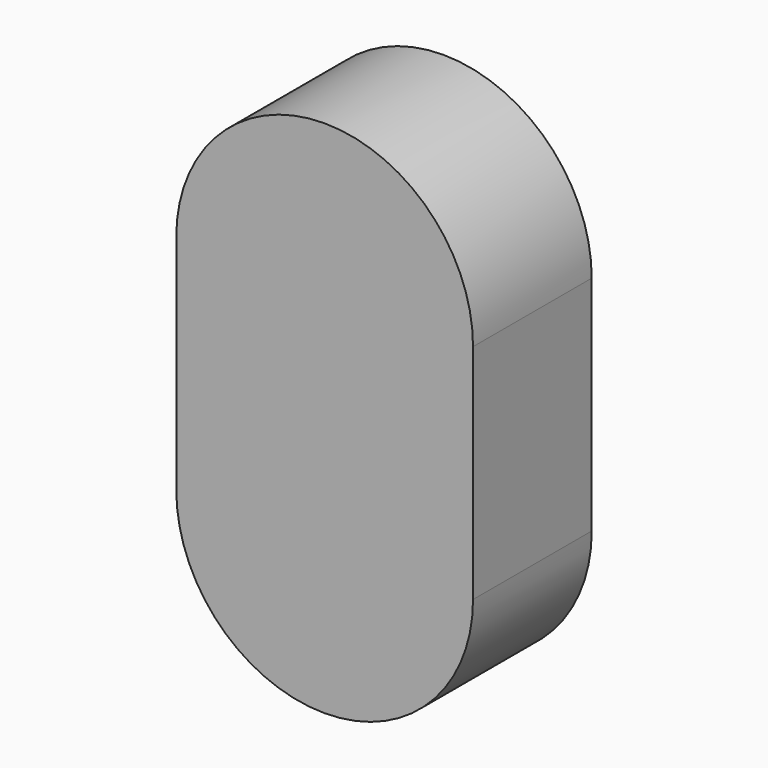
from build123d import *

# Parameters (mm, degrees)
CYLINDER076_R     = 4
CYLINDER076_DEPTH = 4
CYLINDER074_R     = 4
CYLINDER074_DEPTH = 4
BOX063048_W       = 8
BOX063048_H       = 4
BOX063048_DEPTH   = 6


with BuildPart() as cylinder076:
    # Cylinder076 → Cylinder076 (new body)
    with BuildSketch(Plane(origin=(-17, -19, 23.5), x_dir=(1, 0, 0), z_dir=(0, -1, 0))):
        Circle(CYLINDER076_R)
    extrude(amount=CYLINDER076_DEPTH)


with BuildPart() as cylinder074:
    # Cylinder074 → Cylinder074 (new body)
    with BuildSketch(Plane(origin=(-17, -19, 17.5), x_dir=(1, 0, 0), z_dir=(0, -1, 0))):
        Circle(CYLINDER074_R)
    extrude(amount=CYLINDER074_DEPTH)


with BuildPart() as fusion036012039011002025018:
    # Box063048 → Box063048 (new body)
    with BuildSketch(Plane(origin=(-21, -23, 17.5), x_dir=(1, 0, 0), z_dir=(0, 0, 1))):
        with Locations((4, 2)):
            Rectangle(BOX063048_W, BOX063048_H)
    extrude(amount=BOX063048_DEPTH)

    # Fusion036012039011002025018: union Cylinder076, Cylinder074
    add(cylinder076.part)
    add(cylinder074.part)


solid = fusion036012039011002025018.part
